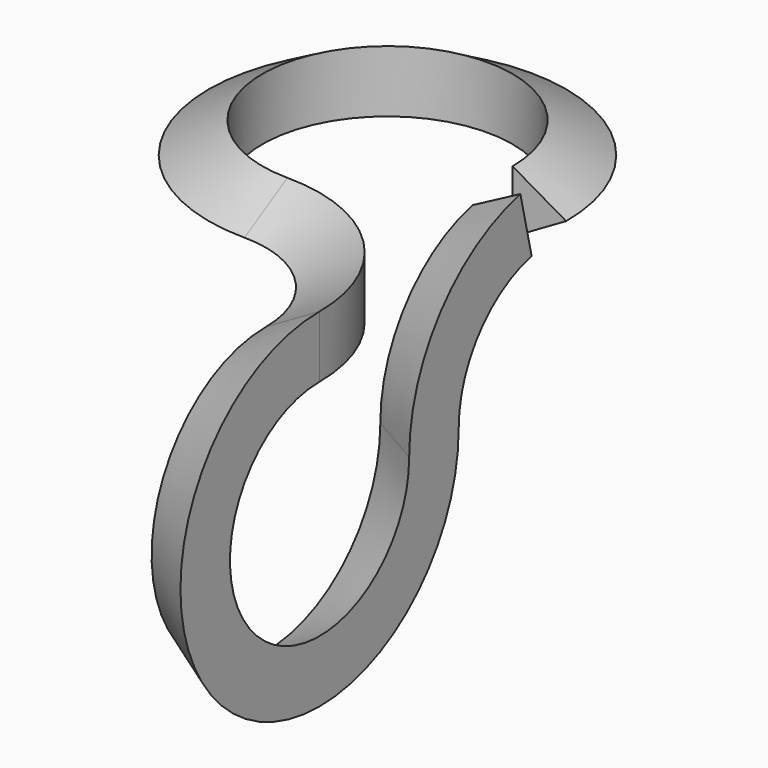
from build123d import *


with BuildPart() as f4:
    # F4: sweep along a path in F0, F6
    with BuildLine(Plane.XY) as f4_path:
        ThreePointArc((0, 30), (-51.2132034356, 51.2132034356), (-30, 0))
        ThreePointArc((-30, 0), (-8.7867965644, -8.7867965644), (0, -30))
    with BuildLine(Plane(origin=(0, 0, 0), x_dir=(0, -1, 0), z_dir=(-1, 0, 0))) as f4_path_2:
        ThreePointArc((30, 0), (51.2132034356, -51.2132034356), (0, -30))
        ThreePointArc((0, -30), (-6.7735276417, -10.5626982962), (-24.16013062, 0.4552602768))
    # F5 (on offset) → F4 (sweep)
    with BuildSketch(Plane.XZ.offset(-30)):
        Polygon((-3.75, -6.4951905284), (7.5, 0), (-3.75, 6.4951905284), align=None)
    sweep(path=f4_path.line + f4_path_2.line)


solid = f4.part
